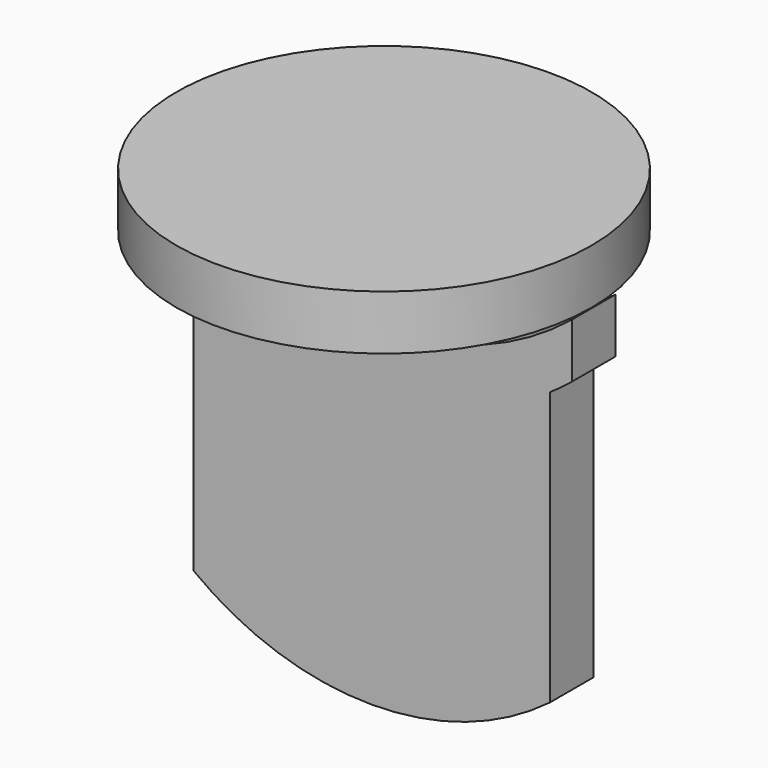
from build123d import *

# Parameters (mm, degrees)
F1_DEPTH = 25.4
F2_R     = 96.55847
F3_DEPTH = 25.4


with BuildPart() as f1:
    # F0 (on Front) → F1 (new body)
    with BuildSketch(Plane.XZ):
        with BuildLine():
            ThreePointArc((96.874418, 0), (3.839535, -33.093502), (-89.195348, 0))
            Line((-89.195348, 0), (-89.195348, -25.4))
            ThreePointArc((-89.195348, -25.4), (-84.185327, -29.303964), (-79.011688, -32.98835))
            ThreePointArc((-79.011688, -32.98835), (3.839535, -58.493502), (86.690758, -32.98835))
            ThreePointArc((86.690758, -32.98835), (91.864397, -29.303964), (96.874418, -25.4))
            Line((96.874418, -25.4), (96.874418, 0))
        make_face()
        with BuildLine():
            ThreePointArc((86.690758, -32.98835), (3.839535, -58.493502), (-79.011688, -32.98835))
            Line((-79.011688, -32.98835), (-79.011688, -159.98835))
            ThreePointArc((-79.011688, -159.98835), (3.839535, -187.840979), (86.690758, -159.98835))
            Line((86.690758, -159.98835), (86.690758, -32.98835))
        make_face()
    extrude(amount=F1_DEPTH)


with BuildPart() as f3:
    # F2 (on Top) → F3 (new body)
    with BuildSketch(Plane.XY):
        with Locations((0, -13.512504)):
            Circle(F2_R)
    extrude(amount=F3_DEPTH)


solid = Compound([f1.part, f3.part])
